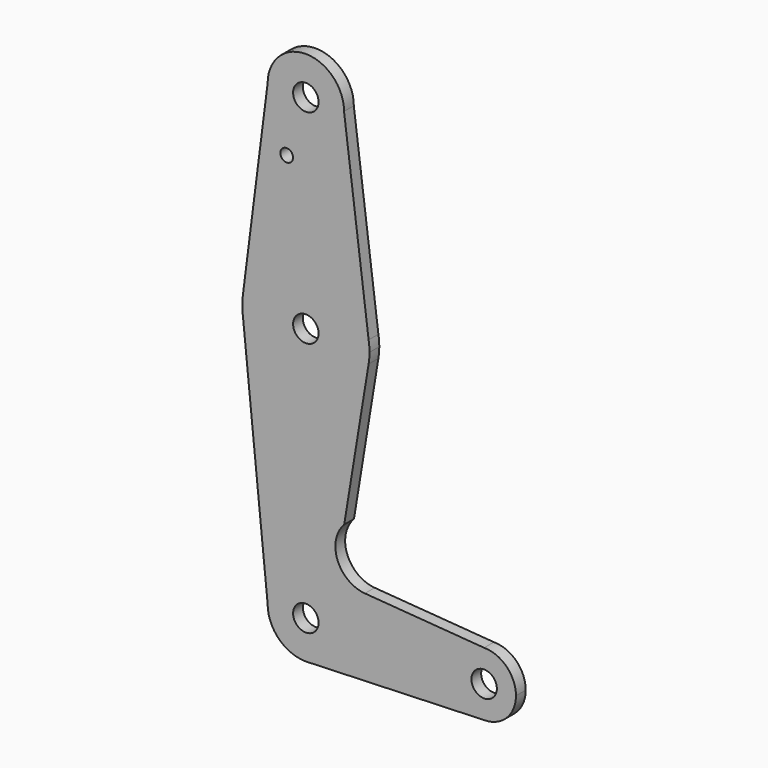
from build123d import *

# Parameters (mm, degrees)
F0_R     = 3.175
F0_R_2   = 1.5875
F1_DEPTH = 3.048
F2_DEPTH = 3.048


with BuildPart() as f1:
    # F0 (on Front) → F1 (new body)
    with BuildSketch(Plane.XZ):
        with BuildLine():
            ThreePointArc((-9.525, 114.3), (0, 104.775), (9.525, 114.3))
            ThreePointArc((9.525, 114.3), (0, 123.825), (-9.525, 114.3))
        make_face()
        with Locations((0, 114.3)):
            Circle(F0_R, mode=Mode.SUBTRACT)
        with BuildLine():
            Line((15.652825, 66.146636), (9.525, 114.3))
            ThreePointArc((9.525, 114.3), (0, 104.775), (-9.525, 114.3))
            Line((-9.525, 114.3), (-15.652825, 66.146636))
            ThreePointArc((-15.652825, 66.146636), (0, 79.375), (15.652825, 66.146636))
        make_face()
        with Locations((-4.769093, 100.0252)):
            Circle(F0_R_2, mode=Mode.SUBTRACT)
        with BuildLine():
            ThreePointArc((15.875, 63.5), (15.819359, 64.827972), (15.652825, 66.146636))
            ThreePointArc((15.652825, 66.146636), (0, 79.375), (-15.652825, 66.146636))
            ThreePointArc((-15.652825, 66.146636), (-15.875, 63.5), (-15.652825, 60.853364))
            ThreePointArc((-15.652825, 60.853364), (0, 47.625), (15.652825, 60.853364))
            ThreePointArc((15.652825, 60.853364), (15.819359, 62.172028), (15.875, 63.5))
        make_face()
        with Locations((0, 63.5)):
            Circle(F0_R, mode=Mode.SUBTRACT)
        with BuildLine():
            ThreePointArc((15.652825, 60.853364), (0, 47.625), (-15.652825, 60.853364))
            Line((-15.652825, 60.853364), (-9.525, 0))
            ThreePointArc((-9.525, 0), (0, 9.525), (9.525, 0))
            ThreePointArc((9.525, 0), (6.97129, -6.490511), (0.67949, -9.500732))
            Line((0.67949, -9.500732), (44.45, -7.9375))
            ThreePointArc((44.45, -7.9375), (36.5125, 0), (44.45, 7.9375))
            Line((44.45, 7.9375), (14.710652, 10.205053))
            ThreePointArc((14.710652, 10.205053), (7.8927, 15.283743), (9.562459, 23.619777))
            Line((9.562459, 23.619777), (15.652825, 60.853364))
        make_face()
        with BuildLine():
            ThreePointArc((9.525, 0), (0, 9.525), (-9.525, 0))
            ThreePointArc((-9.525, 0), (-6.735192, -6.735192), (0, -9.525))
            Line((0, -9.525), (0.67949, -9.500732))
            ThreePointArc((0.67949, -9.500732), (6.97129, -6.490511), (9.525, 0))
        make_face()
        Circle(F0_R, mode=Mode.SUBTRACT)
        with BuildLine():
            Line((0.67949, -9.500732), (0, -9.525))
            ThreePointArc((0, -9.525), (0.339962, -9.518931), (0.67949, -9.500732))
        make_face()
        with BuildLine():
            ThreePointArc((52.3875, 0), (50.06266, 5.61266), (44.45, 7.9375))
            ThreePointArc((44.45, 7.9375), (36.5125, 0), (44.45, -7.9375))
            ThreePointArc((44.45, -7.9375), (50.06266, -5.61266), (52.3875, 0))
        make_face()
        with Locations((44.45, 0)):
            Circle(F0_R, mode=Mode.SUBTRACT)
    extrude(amount=F1_DEPTH)

    # F0 (on Front) → F2 (join)
    with BuildSketch(Plane.XZ):
        with BuildLine():
            ThreePointArc((-9.525, 114.3), (0, 104.775), (9.525, 114.3))
            ThreePointArc((9.525, 114.3), (0, 123.825), (-9.525, 114.3))
        make_face()
        with Locations((0, 114.3)):
            Circle(F0_R, mode=Mode.SUBTRACT)
        with BuildLine():
            Line((15.652825, 66.146636), (9.525, 114.3))
            ThreePointArc((9.525, 114.3), (0, 104.775), (-9.525, 114.3))
            Line((-9.525, 114.3), (-15.652825, 66.146636))
            ThreePointArc((-15.652825, 66.146636), (0, 79.375), (15.652825, 66.146636))
        make_face()
        with Locations((-4.769093, 100.0252)):
            Circle(F0_R_2, mode=Mode.SUBTRACT)
        with BuildLine():
            ThreePointArc((15.875, 63.5), (15.819359, 64.827972), (15.652825, 66.146636))
            ThreePointArc((15.652825, 66.146636), (0, 79.375), (-15.652825, 66.146636))
            ThreePointArc((-15.652825, 66.146636), (-15.875, 63.5), (-15.652825, 60.853364))
            ThreePointArc((-15.652825, 60.853364), (0, 47.625), (15.652825, 60.853364))
            ThreePointArc((15.652825, 60.853364), (15.819359, 62.172028), (15.875, 63.5))
        make_face()
        with Locations((0, 63.5)):
            Circle(F0_R, mode=Mode.SUBTRACT)
        with BuildLine():
            ThreePointArc((15.652825, 60.853364), (0, 47.625), (-15.652825, 60.853364))
            Line((-15.652825, 60.853364), (-9.525, 0))
            ThreePointArc((-9.525, 0), (0, 9.525), (9.525, 0))
            ThreePointArc((9.525, 0), (6.97129, -6.490511), (0.67949, -9.500732))
            Line((0.67949, -9.500732), (44.45, -7.9375))
            ThreePointArc((44.45, -7.9375), (36.5125, 0), (44.45, 7.9375))
            Line((44.45, 7.9375), (14.710652, 10.205053))
            ThreePointArc((14.710652, 10.205053), (7.8927, 15.283743), (9.562459, 23.619777))
            Line((9.562459, 23.619777), (15.652825, 60.853364))
        make_face()
        with BuildLine():
            ThreePointArc((9.525, 0), (0, 9.525), (-9.525, 0))
            ThreePointArc((-9.525, 0), (-6.735192, -6.735192), (0, -9.525))
            Line((0, -9.525), (0.67949, -9.500732))
            ThreePointArc((0.67949, -9.500732), (6.97129, -6.490511), (9.525, 0))
        make_face()
        Circle(F0_R, mode=Mode.SUBTRACT)
        with BuildLine():
            Line((0.67949, -9.500732), (0, -9.525))
            ThreePointArc((0, -9.525), (0.339962, -9.518931), (0.67949, -9.500732))
        make_face()
        with BuildLine():
            ThreePointArc((52.3875, 0), (50.06266, 5.61266), (44.45, 7.9375))
            ThreePointArc((44.45, 7.9375), (36.5125, 0), (44.45, -7.9375))
            ThreePointArc((44.45, -7.9375), (50.06266, -5.61266), (52.3875, 0))
        make_face()
        with Locations((44.45, 0)):
            Circle(F0_R, mode=Mode.SUBTRACT)
    extrude(amount=F2_DEPTH)


solid = f1.part
